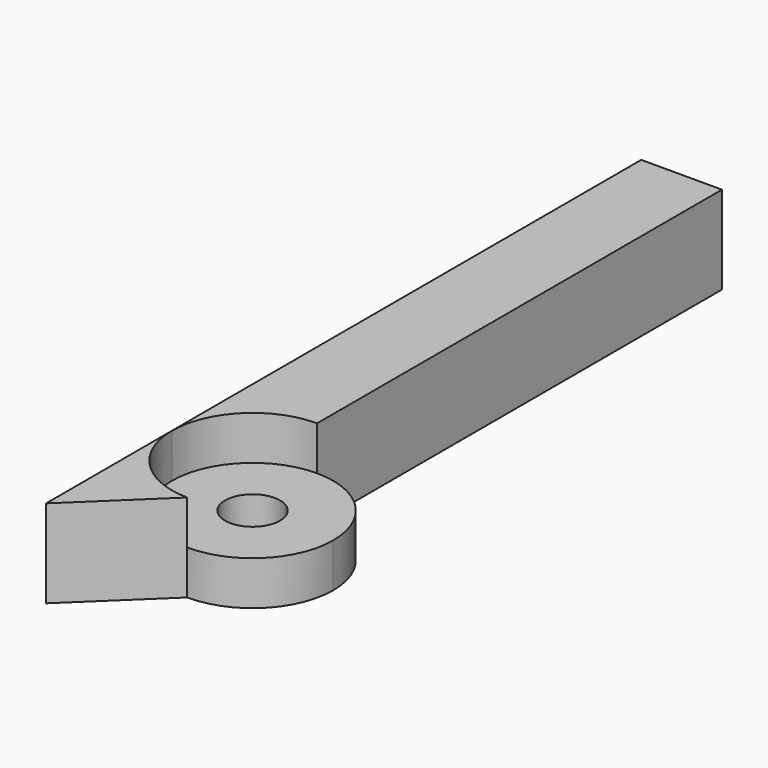
from build123d import *

# Parameters (mm, degrees)
F1_DEPTH = 7.62
F3_DEPTH = 3.81
F5_D     = 4.7625
F5_DEPTH = 12.7
F7_DEPTH = 7.62


with BuildPart() as f1:
    # F0 (on Top) → F1 (new body)
    with BuildSketch(Plane.XY):
        with BuildLine():
            Line((-2.619375, 25.4), (-2.619375, -25.4))
            ThreePointArc((-2.619375, -25.4), (-0.573515, -20.460859), (4.365625, -18.415))
            Line((4.365625, -18.415), (4.365625, 25.4))
            Line((4.365625, 25.4), (-2.619375, 25.4))
        make_face()
        with BuildLine():
            Line((4.365625, -18.415), (4.365625, -25.4))
            Line((4.365625, -25.4), (-2.619375, -25.4))
            ThreePointArc((-2.619375, -25.4), (4.365625, -32.385), (11.350625, -25.4))
            ThreePointArc((11.350625, -25.4), (9.304766, -20.460859), (4.365625, -18.415))
        make_face()
        with BuildLine():
            Line((-2.619375, -25.4), (4.365625, -25.4))
            Line((4.365625, -25.4), (4.365625, -18.415))
            ThreePointArc((4.365625, -18.415), (-0.573515, -20.460859), (-2.619375, -25.4))
        make_face()
    extrude(amount=-F1_DEPTH)

    # F2 (on face) → F3 (cut)
    with BuildSketch(Plane.XY):
        with BuildLine():
            ThreePointArc((-2.619375, -25.4), (4.365625, -32.385), (11.350625, -25.4))
            ThreePointArc((11.350625, -25.4), (9.304766, -20.460859), (4.365625, -18.415))
            ThreePointArc((4.365625, -18.415), (-0.573515, -20.460859), (-2.619375, -25.4))
        make_face()
    extrude(amount=-F3_DEPTH, mode=Mode.SUBTRACT)

    # F5
    with Locations(Plane.XY.offset(-3.81)):
        with Locations((4.365625, -25.4)):
            Hole(F5_D / 2, depth=F5_DEPTH)


with BuildPart() as f7:
    # F6 (on face) → F7 (new body)
    with BuildSketch(Plane(origin=(0, 0, -7.62), x_dir=(1, 0, 0), z_dir=(0, 0, -1))):
        with BuildLine():
            Line((-2.619375, 39.0144), (-2.619375, 25.4))
            ThreePointArc((-2.619375, 25.4), (-0.598223, 30.314309), (4.295567, 32.384649))
            Line((4.295567, 32.384649), (-2.619375, 39.0144))
        make_face()
    extrude(amount=-F7_DEPTH)


solid = Compound([f1.part, f7.part])
